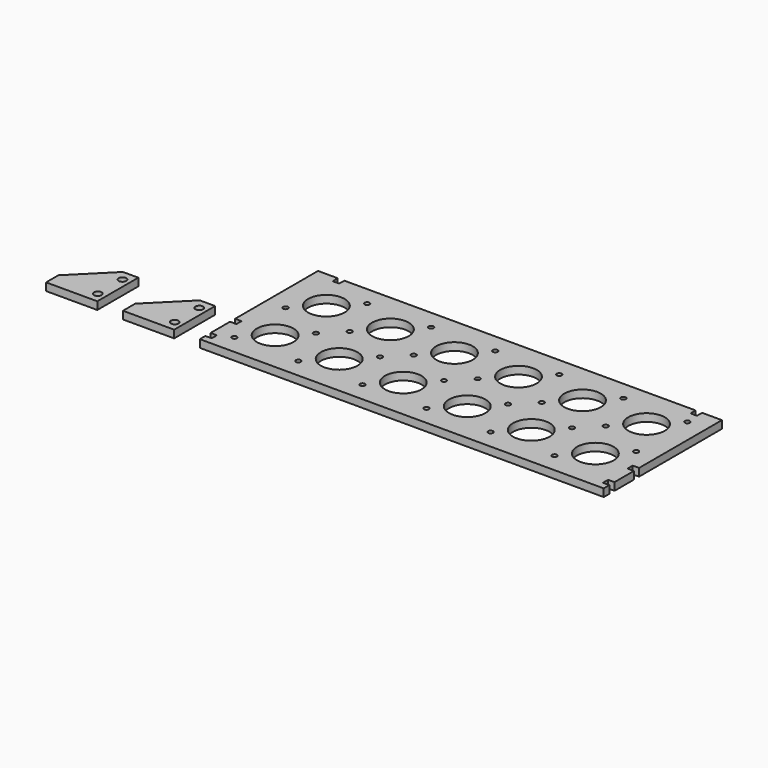
from build123d import *

# Parameters (mm, degrees)
F1_R     = 1.9304
F1_R_2   = 14.3
F2_DEPTH = 6
F1_R_3   = 3


with BuildPart() as f2:
    # F1 (on Top) → F2 (new body)
    with BuildSketch(Plane.XY):
        Polygon((0, 5.405), (0, 0), (315.3553390593, 0), (315.3553390593, 5.405), (310.3553390593, 5.55), (310.3553390593, 10.45), (315.3553390593, 10.595), (315.3553390593, 29.405), (310.3553390593, 29.55), (310.3553390593, 34.45), (315.3553390593, 34.595), (315.3553390593, 115.3553390593), (299.9503390593, 115.3553390593), (299.8053390593, 110.3553390593), (294.9053390593, 110.3553390593), (294.7603390593, 115.3553390593), (20.595, 115.3553390593), (20.45, 110.3553390593), (15.55, 110.3553390593), (15.405, 115.3553390593), (0, 115.3553390593), (0, 34.595), (5, 34.45), (5, 29.55), (0, 29.405), (0, 10.595), (5, 10.45), (5, 5.55), align=None)
        with Locations((15, 15)):
            Circle(F1_R, mode=Mode.SUBTRACT)
        with Locations((65, 15)):
            Circle(F1_R, mode=Mode.SUBTRACT)
        with Locations((32.6776695297, 32.6776695297)):
            Circle(F1_R_2, mode=Mode.SUBTRACT)
        with Locations((82.6776695297, 32.6776695297)):
            Circle(F1_R_2, mode=Mode.SUBTRACT)
        with Locations((50.3553390593, 50.3553390593)):
            Circle(F1_R, mode=Mode.SUBTRACT)
        with Locations((115, 15)):
            Circle(F1_R, mode=Mode.SUBTRACT)
        with Locations((165, 15)):
            Circle(F1_R, mode=Mode.SUBTRACT)
        with Locations((215, 15)):
            Circle(F1_R, mode=Mode.SUBTRACT)
        with Locations((265, 15)):
            Circle(F1_R, mode=Mode.SUBTRACT)
        with Locations((132.6776695297, 32.6776695297)):
            Circle(F1_R_2, mode=Mode.SUBTRACT)
        with Locations((182.6776695297, 32.6776695297)):
            Circle(F1_R_2, mode=Mode.SUBTRACT)
        with Locations((100.3553390593, 50.3553390593)):
            Circle(F1_R, mode=Mode.SUBTRACT)
        with Locations((150.3553390593, 50.3553390593)):
            Circle(F1_R, mode=Mode.SUBTRACT)
        with Locations((200.3553390593, 50.3553390593)):
            Circle(F1_R, mode=Mode.SUBTRACT)
        with Locations((232.6776695297, 32.6776695297)):
            Circle(F1_R_2, mode=Mode.SUBTRACT)
        with Locations((282.6776695297, 32.6776695297)):
            Circle(F1_R_2, mode=Mode.SUBTRACT)
        with Locations((250.3553390593, 50.3553390593)):
            Circle(F1_R, mode=Mode.SUBTRACT)
        with Locations((300.3553390593, 50.3553390593)):
            Circle(F1_R, mode=Mode.SUBTRACT)
        with Locations((15, 65)):
            Circle(F1_R, mode=Mode.SUBTRACT)
        with Locations((65, 65)):
            Circle(F1_R, mode=Mode.SUBTRACT)
        with Locations((32.6776695297, 82.6776695297)):
            Circle(F1_R_2, mode=Mode.SUBTRACT)
        with Locations((82.6776695297, 82.6776695297)):
            Circle(F1_R_2, mode=Mode.SUBTRACT)
        with Locations((50.3553390593, 100.3553390593)):
            Circle(F1_R, mode=Mode.SUBTRACT)
        with Locations((115, 65)):
            Circle(F1_R, mode=Mode.SUBTRACT)
        with Locations((165, 65)):
            Circle(F1_R, mode=Mode.SUBTRACT)
        with Locations((132.6776695297, 82.6776695297)):
            Circle(F1_R_2, mode=Mode.SUBTRACT)
        with Locations((182.6776695297, 82.6776695297)):
            Circle(F1_R_2, mode=Mode.SUBTRACT)
        with Locations((215, 65)):
            Circle(F1_R, mode=Mode.SUBTRACT)
        with Locations((265, 65)):
            Circle(F1_R, mode=Mode.SUBTRACT)
        with Locations((232.6776695297, 82.6776695297)):
            Circle(F1_R_2, mode=Mode.SUBTRACT)
        with Locations((282.6776695297, 82.6776695297)):
            Circle(F1_R_2, mode=Mode.SUBTRACT)
        with Locations((100.3553390593, 100.3553390593)):
            Circle(F1_R, mode=Mode.SUBTRACT)
        with Locations((150.3553390593, 100.3553390593)):
            Circle(F1_R, mode=Mode.SUBTRACT)
        with Locations((200.3553390593, 100.3553390593)):
            Circle(F1_R, mode=Mode.SUBTRACT)
        with Locations((250.3553390593, 100.3553390593)):
            Circle(F1_R, mode=Mode.SUBTRACT)
        with Locations((300.3553390593, 100.3553390593)):
            Circle(F1_R, mode=Mode.SUBTRACT)
    extrude(amount=F2_DEPTH)


with BuildPart() as f2b:
    # F1 (on Top) → F2, piece 2 (new body)
    with BuildSketch(Plane.XY):
        Polygon((-29, 40), (-32, 40), (-60, 12), (-60, 0), (-20, 0), (-20, 40), (-23, 40), (-26, 40), align=None)
        with Locations((-26, 8)):
            Circle(F1_R_3, mode=Mode.SUBTRACT)
        with Locations((-26, 32)):
            Circle(F1_R_3, mode=Mode.SUBTRACT)
    extrude(amount=F2_DEPTH)


with BuildPart() as f2c:
    # F1 (on Top) → F2, piece 3 (new body)
    with BuildSketch(Plane.XY):
        Polygon((-120, 12), (-120, 0), (-80, 0), (-80, 40), (-83, 40), (-86, 40), (-89, 40), (-92, 40), align=None)
        with Locations((-86, 8)):
            Circle(F1_R_3, mode=Mode.SUBTRACT)
        with Locations((-86, 32)):
            Circle(F1_R_3, mode=Mode.SUBTRACT)
    extrude(amount=F2_DEPTH)


solid = Compound([f2.part, f2b.part, f2c.part])
